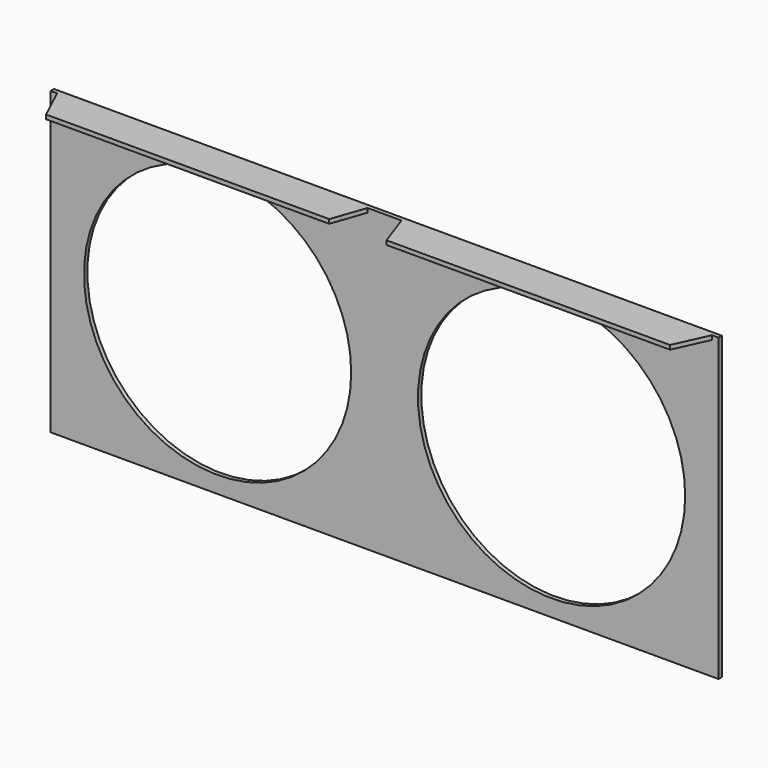
from build123d import *

# Parameters (mm, degrees)
F0_W     = 254
F0_H     = 114.3
F0_R     = 50.8
F1_DEPTH = 1.5875
F3_DEPTH = 12.7
F5_DEPTH = 1.5875
F7_DEPTH = 25.4
F9_DEPTH = 25.4


with BuildPart() as f1:
    # F0 (on Front) → F1 (new body)
    with BuildSketch(Plane.XZ):
        Rectangle(F0_W, F0_H)
        with Locations((-63.5, 0)):
            Circle(F0_R, mode=Mode.SUBTRACT)
        with Locations((63.5, 0)):
            Circle(F0_R, mode=Mode.SUBTRACT)
    extrude(amount=F1_DEPTH)

    # F2 (on face) → F3 (join)
    with BuildSketch(Plane.XZ.offset(1.5875)):
        Polygon((-9.496601, 57.15), (-122.010618, 57.15), (-124.515601, 57.15), (-124.515601, 55.5625), (-122.010618, 55.5625), (-9.496601, 55.5625), align=None)
        Polygon((121.816622, 57.15), (9.588465, 57.15), (9.588465, 55.5625), (121.816622, 55.5625), (124.48658, 55.5625), (124.48658, 57.15), align=None)
    extrude(amount=F3_DEPTH)

    # F4 (on face) → F5 (join)
    with BuildSketch(Plane.XY.offset(57.15)):
        Polygon((-6.470103, -1.5875), (-9.496601, -1.5875), (-9.496601, -10.329274), align=None)
        Polygon((9.588465, -10.577933), (9.588465, -1.5875), (6.456523, -1.5875), align=None)
    extrude(amount=-F5_DEPTH)

    # F6 (on face) → F7 (cut)
    with BuildSketch(Plane.XY.offset(57.15)):
        Polygon((-10.890338, -14.2875), (-9.496601, -14.2875), (-9.496601, -10.329274), align=None)
        Polygon((9.588465, -10.577933), (9.588465, -14.2875), (10.889023, -14.2875), align=None)
    extrude(amount=-F7_DEPTH, mode=Mode.SUBTRACT)

    # F8 (on face) → F9 (cut)
    with BuildSketch(Plane.XY.offset(57.15)):
        Polygon((-118.558452, -14.2875), (-124.515601, -1.5875), (-124.515601, -14.2875), align=None)
        Polygon((124.48658, -14.2875), (124.48658, -1.5875), (118.696742, -14.2875), align=None)
    extrude(amount=-F9_DEPTH, mode=Mode.SUBTRACT)


solid = f1.part
